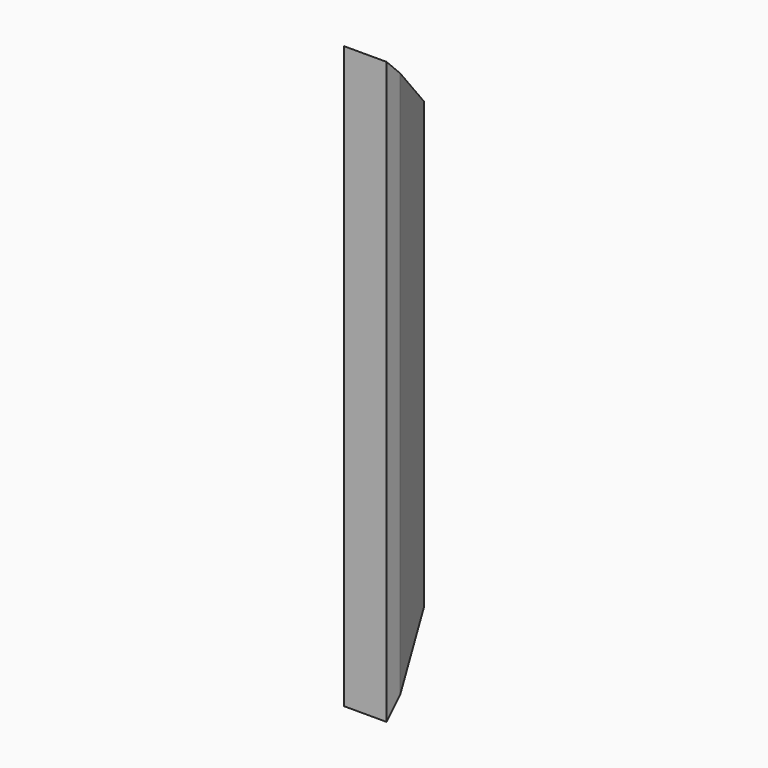
from build123d import *

# Parameters (mm, degrees)
F0_W     = 25.4
F0_H     = 215.9
F1_DEPTH = 15.875
F3_W     = 6.35
F3_H     = 6.35
F4_DEPTH = 215.901
F5_DEPTH = 15.876
F6_SIZE2 = 19.0554861232
F6_SIZE  = 6.35


with BuildPart() as f1:
    # F0 (on Right) → F1 (new body)
    with BuildSketch(Plane.YZ):
        Rectangle(F0_W, F0_H)
    extrude(amount=F1_DEPTH)

    # F3 (on face) → F4 (cut, through all)
    with BuildSketch(Plane(origin=(0, 0, -107.95), x_dir=(1, 0, 0), z_dir=(0, 0, -1))):
        with Locations((3.175, -9.525)):
            Rectangle(F3_W, F3_H)
    extrude(amount=-F4_DEPTH, mode=Mode.SUBTRACT)

    # F2 (on face) → F5 (cut, through all)
    with BuildSketch(Plane.YZ.offset(15.875)):
        Polygon((12.7, 107.95), (-12.7, 107.95), (12.7, 82.55), align=None)
        Polygon((12.7, -82.55), (-12.7, -107.95), (12.7, -107.95), align=None)
    extrude(amount=-F5_DEPTH, mode=Mode.SUBTRACT)

    # F6
    f6_edges = [f1.edges().sort_by_distance(p)[0] for p in [
        (15.875, 12.7, 0),
    ]]
    f6_side = f1.faces().sort_by_distance((11.1125, 12.7, 0))[0]
    chamfer(f6_edges, length=F6_SIZE, length2=F6_SIZE2, reference=f6_side)


solid = f1.part
